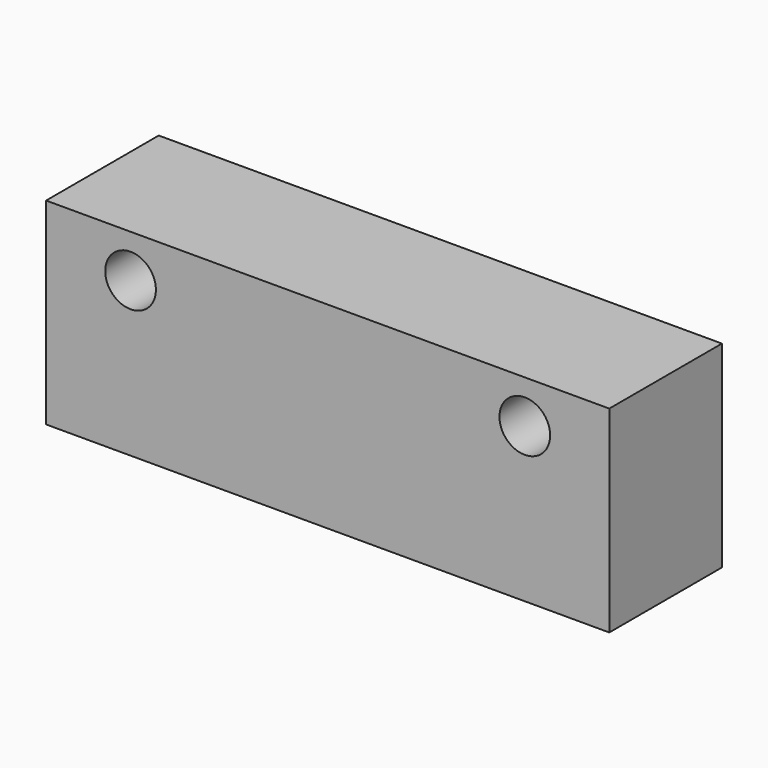
from build123d import *

# Parameters (mm, degrees)
F0_W     = 100
F0_H     = 35
F0_R     = 4.5
F1_DEPTH = 25


with BuildPart() as f1:
    # F0 (on Front) → F1 (new body)
    with BuildSketch(Plane.XZ):
        Rectangle(F0_W, F0_H)
        with Locations((-35, 9.883461)):
            Circle(F0_R, mode=Mode.SUBTRACT)
        with Locations((35, 9.883461)):
            Circle(F0_R, mode=Mode.SUBTRACT)
        Rectangle(F0_W, F0_H)
        with Locations((-35, 9.883461)):
            Circle(F0_R, mode=Mode.SUBTRACT)
        with Locations((35, 9.883461)):
            Circle(F0_R, mode=Mode.SUBTRACT)
    extrude(amount=F1_DEPTH)


solid = f1.part
